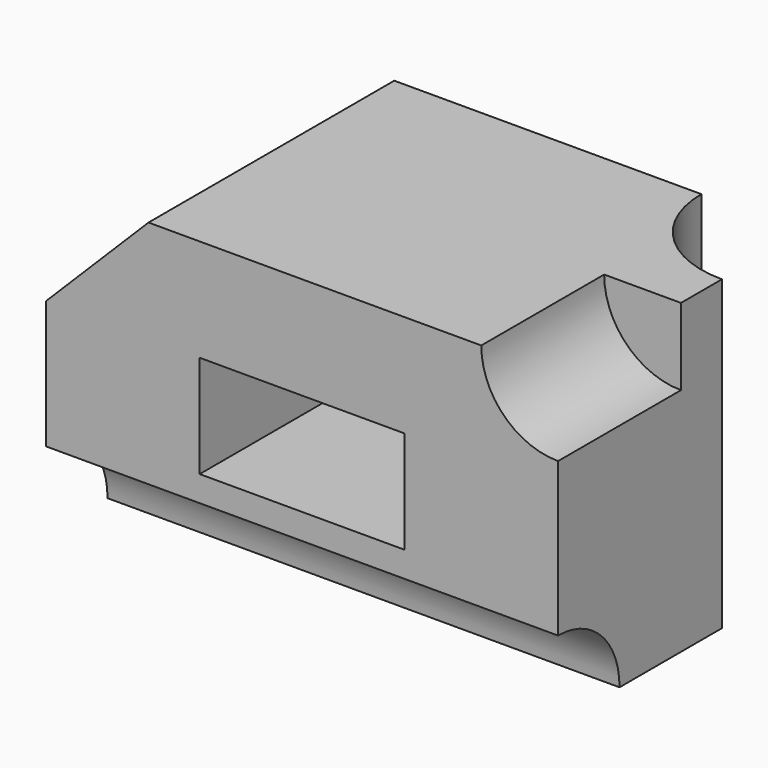
from build123d import *

# Parameters (mm, degrees)
F0_W     = 50
F0_H     = 30
F1_DEPTH = 30
F3_DEPTH = 50
F5_DEPTH = 30
F7_DEPTH = 15
F6_W     = 20
F6_H     = 10
F8_DEPTH = 20
F9_SIZE  = 10


with BuildPart() as f1:
    # F0 (on Front) → F1 (new body)
    with BuildSketch(Plane.XZ):
        with Locations((-25, 15)):
            Rectangle(F0_W, F0_H)
    extrude(amount=F1_DEPTH)

    # F2 (on face) → F3 (cut, through all)
    with BuildSketch(Plane.YZ):
        with BuildLine():
            Line((-30, 0), (-22.5, 0))
            ThreePointArc((-22.5, 0), (-24.6966991411, 5.3033008589), (-30, 7.5))
            Line((-30, 7.5), (-30, 0))
        make_face()
    extrude(amount=-F3_DEPTH, mode=Mode.SUBTRACT)

    # F4 (on face) → F5 (cut, through all)
    with BuildSketch(Plane.XY.offset(30)):
        with BuildLine():
            Line((0, 0), (-10, 0))
            ThreePointArc((-10, 0), (-7.0710678119, -7.0710678119), (0, -10))
            Line((0, -10), (0, 0))
        make_face()
    extrude(amount=-F5_DEPTH, mode=Mode.SUBTRACT)

    # F6 (on face) → F7 (cut)
    with BuildSketch(Plane.XZ.offset(30)):
        with BuildLine():
            Line((0, 30), (-7.5, 30))
            ThreePointArc((-7.5, 30), (-5.3033008589, 24.6966991411), (0, 22.5))
            Line((0, 22.5), (0, 30))
        make_face()
    extrude(amount=-F7_DEPTH, mode=Mode.SUBTRACT)

    # F6 (on face) → F8 (cut)
    with BuildSketch(Plane.XZ.offset(30)):
        with Locations((-25, 15)):
            Rectangle(F6_W, F6_H)
    extrude(amount=-F8_DEPTH, mode=Mode.SUBTRACT)

    # F9
    f9_edges = [f1.edges().sort_by_distance(p)[0] for p in [
        (-50, -15, 30),
    ]]
    chamfer(f9_edges, length=F9_SIZE)


solid = f1.part
